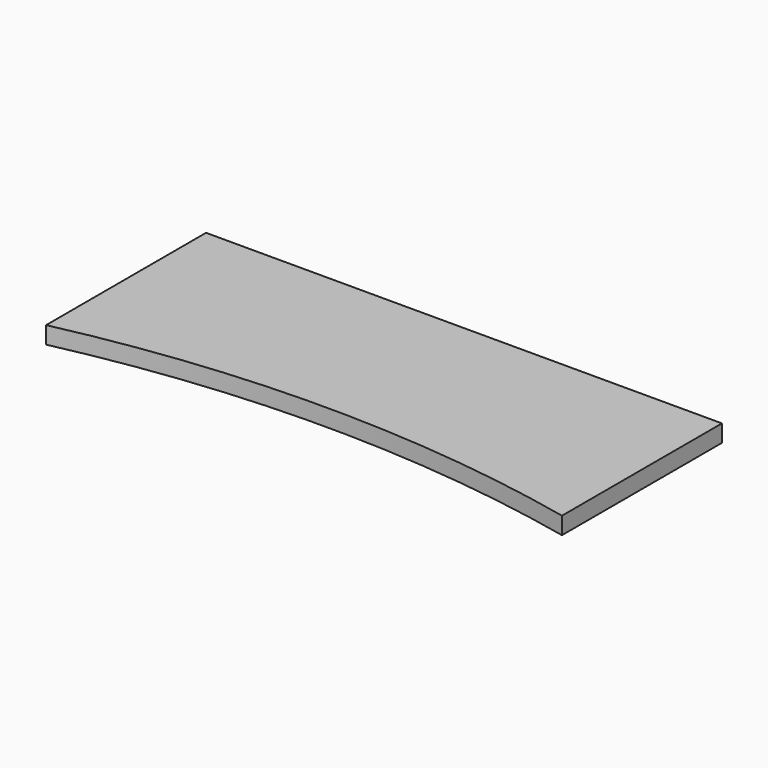
from build123d import *

# Parameters (mm, degrees)
CYLINDER_R     = 140
CYLINDER_DEPTH = 10
BOX_W          = 60
BOX_H          = 30
BOX_DEPTH      = 2


with BuildPart() as cylinder:
    # Cylinder → Cylinder (new body)
    with BuildSketch(Plane.XY):
        Circle(CYLINDER_R)
    extrude(amount=CYLINDER_DEPTH)


with BuildPart() as cut:
    # Box → Box (new body)
    with BuildSketch(Plane(origin=(-30, 130, 0), x_dir=(1, 0, 0), z_dir=(0, 0, 1))):
        with Locations((30, 15)):
            Rectangle(BOX_W, BOX_H)
    extrude(amount=BOX_DEPTH)

    # Cut: cut Cylinder
    add(cylinder.part, mode=Mode.SUBTRACT)


solid = cut.part
